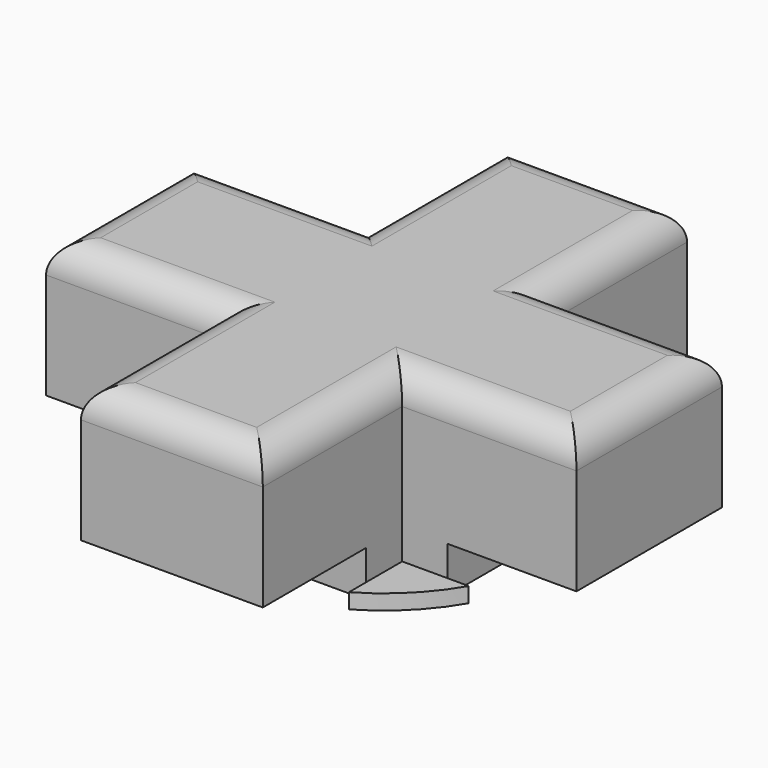
from build123d import *

# Parameters (mm, degrees)
BOX008_W       = 10
BOX008_H       = 6
BOX008_DEPTH   = 1.5
BOX009_W       = 10
BOX009_H       = 6
BOX009_DEPTH   = 1.5
BOX010_W       = 6
BOX010_H       = 10
BOX010_DEPTH   = 1.5
BOX011_W       = 6
BOX011_H       = 10
BOX011_DEPTH   = 1.5
BOX007_W       = 6
BOX007_H       = 17.5
BOX007_DEPTH   = 6
FILLET_R       = 1
BOX006_W       = 17.5
BOX006_H       = 6
BOX006_DEPTH   = 6
FILLET001_R    = 1
CYLINDER_R     = 6
CYLINDER_DEPTH = 0.5


with BuildPart() as cube:
    # Box008 → Box008 (new body)
    with BuildSketch(Plane(origin=(4.5, -3, 0), x_dir=(1, 0, 0), z_dir=(0, 0, 1))):
        with Locations((5, 3)):
            Rectangle(BOX008_W, BOX008_H)
    extrude(amount=BOX008_DEPTH)


with BuildPart() as cube001:
    # Box009 → Box009 (new body)
    with BuildSketch(Plane(origin=(-14.5, -3, 0), x_dir=(1, 0, 0), z_dir=(0, 0, 1))):
        with Locations((5, 3)):
            Rectangle(BOX009_W, BOX009_H)
    extrude(amount=BOX009_DEPTH)


with BuildPart() as cube002:
    # Box010 → Box010 (new body)
    with BuildSketch(Plane(origin=(-3, 4.5, 0), x_dir=(1, 0, 0), z_dir=(0, 0, 1))):
        with Locations((3, 5)):
            Rectangle(BOX010_W, BOX010_H)
    extrude(amount=BOX010_DEPTH)


with BuildPart() as cube003:
    # Box011 → Box011 (new body)
    with BuildSketch(Plane(origin=(-3, -14.5, 0), x_dir=(1, 0, 0), z_dir=(0, 0, 1))):
        with Locations((3, 5)):
            Rectangle(BOX011_W, BOX011_H)
    extrude(amount=BOX011_DEPTH)


with BuildPart() as fillet_body:
    # Box007 → Box007 (new body)
    with BuildSketch(Plane(origin=(-3, -8.75, 0), x_dir=(1, 0, 0), z_dir=(0, 0, 1))):
        with Locations((3, 8.75)):
            Rectangle(BOX007_W, BOX007_H)
    extrude(amount=BOX007_DEPTH)

    # Fillet
    fillet_edges = [fillet_body.edges().sort_by_distance(p)[0] for p in [
        (-3, 0, 6),
        (3, 0, 6),
        (0, -8.75, 6),
        (0, 8.75, 6),
    ]]
    fillet(fillet_edges, radius=FILLET_R)


with BuildPart() as fusion:
    # Box006 → Box006 (new body)
    with BuildSketch(Plane(origin=(-8.75, -3, 0), x_dir=(1, 0, 0), z_dir=(0, 0, 1))):
        with Locations((8.75, 3)):
            Rectangle(BOX006_W, BOX006_H)
    extrude(amount=BOX006_DEPTH)

    # Fillet001
    fillet001_edges = [fusion.edges().sort_by_distance(p)[0] for p in [
        (-8.75, 0, 6),
        (8.75, 0, 6),
        (0, -3, 6),
        (0, 3, 6),
    ]]
    fillet(fillet001_edges, radius=FILLET001_R)

    # Fusion: union Fillet body
    add(fillet_body.part)


with BuildPart() as cut003:
    # Cylinder → Cylinder (new body)
    with BuildSketch(Plane.XY):
        Circle(CYLINDER_R)
    extrude(amount=CYLINDER_DEPTH)

    # Fusion001: union Fusion
    add(fusion.part)

    # Cut: cut Cube003
    add(cube003.part, mode=Mode.SUBTRACT)

    # Cut001: cut Cube002
    add(cube002.part, mode=Mode.SUBTRACT)

    # Cut002: cut Cube001
    add(cube001.part, mode=Mode.SUBTRACT)

    # Cut003: cut Cube
    add(cube.part, mode=Mode.SUBTRACT)


solid = cut003.part
